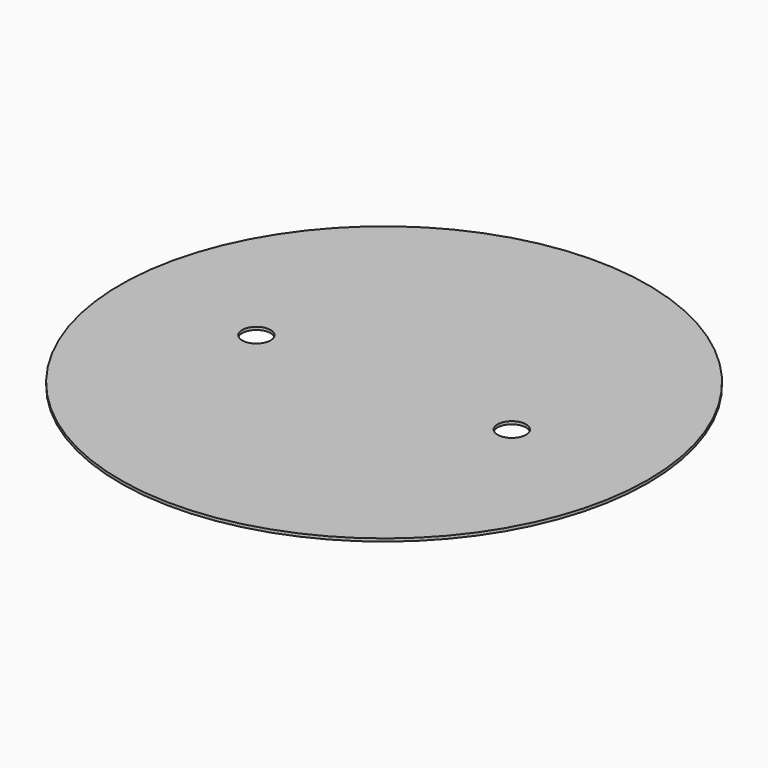
from build123d import *

# Parameters (mm, degrees)
SKETCH_R   = 93
SKETCH_R_2 = 5
PAD_DEPTH  = 1


with BuildPart() as part:
    # Sketch → Pad (new body)
    with BuildSketch(Plane.XY):
        Circle(SKETCH_R)
        with Locations((-45, 0)):
            Circle(SKETCH_R_2, mode=Mode.SUBTRACT)
        with Locations((45, 0)):
            Circle(SKETCH_R_2, mode=Mode.SUBTRACT)
    extrude(amount=PAD_DEPTH)


solid = part.part
